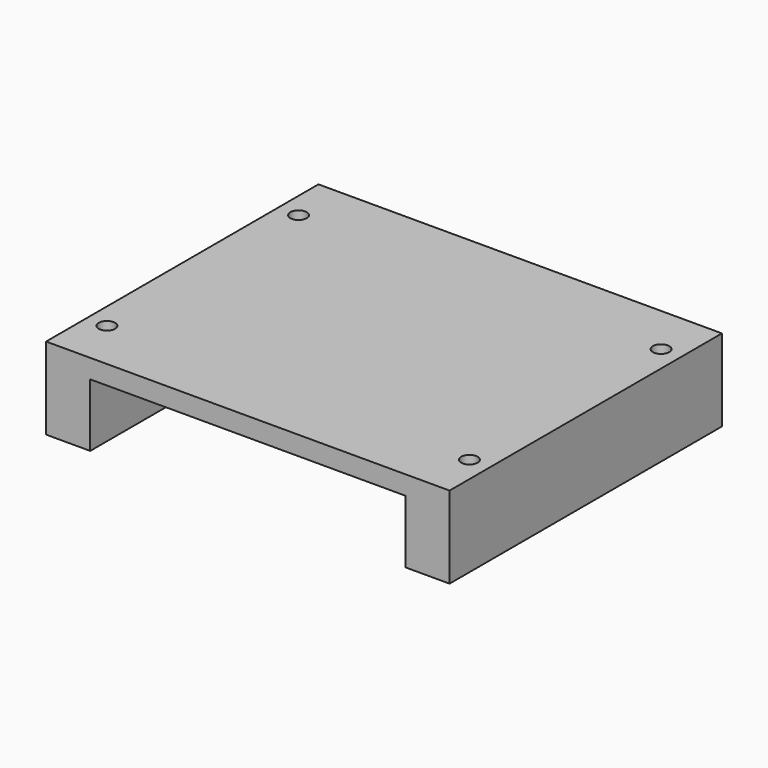
from build123d import *

# Parameters (mm, degrees)
SKETCH_W        = 64
SKETCH_H        = 54
PAD_DEPTH       = 3
SKETCH001_W     = 7
SKETCH001_H     = 54
PAD001_DEPTH    = 10
SKETCH002_R     = 1.3
POCKET_DEPTH    = 20
SKETCH003_R     = 1.3
POCKET001_DEPTH = 20


with BuildPart() as part:
    # Sketch → Pad (new body)
    with BuildSketch(Plane.XY):
        Rectangle(SKETCH_W, SKETCH_H)
    extrude(amount=PAD_DEPTH)

    # Sketch001 (on Face5 of Pad) → Pad001 (join)
    with BuildSketch(Plane(origin=(0, 0, 0), x_dir=(1, 0, 0), z_dir=(0, 0, -1))):
        with Locations((28.5, 0)):
            Rectangle(SKETCH001_W, SKETCH001_H)
        with Locations((-28.5, 0)):
            Rectangle(SKETCH001_W, SKETCH001_H)
    extrude(amount=PAD001_DEPTH)

    # Sketch002 (on Face12 of Pad001) → Pocket (cut)
    with BuildSketch(Plane(origin=(0, 0, -10), x_dir=(1, 0, 0), z_dir=(0, 0, -1))):
        with Locations((-28.75, 19)):
            Circle(SKETCH002_R)
        with Locations((-28.75, -19)):
            Circle(SKETCH002_R)
    extrude(amount=-POCKET_DEPTH, mode=Mode.SUBTRACT)

    # Sketch003 (on Face14 of Pocket) → Pocket001 (cut)
    with BuildSketch(Plane(origin=(0, 0, -10), x_dir=(1, 0, 0), z_dir=(0, 0, -1))):
        with Locations((28.75, 19)):
            Circle(SKETCH003_R)
        with Locations((28.75, -19)):
            Circle(SKETCH003_R)
    extrude(amount=-POCKET001_DEPTH, mode=Mode.SUBTRACT)


with BuildPart() as part_1:
    # Body placement: moved
    add(part.part.moved(Location((0, 0, 10.5))))


solid = part_1.part
